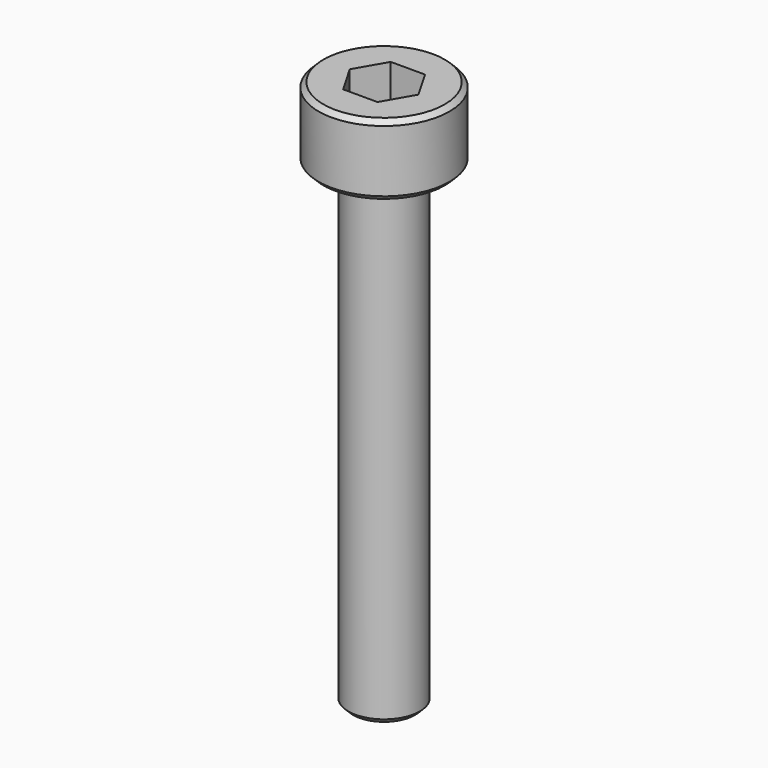
from build123d import *

# Parameters (mm, degrees)
SKETCH006_R     = 2.75
PAD003_DEPTH    = 3
SKETCH007_R     = 1.5
PAD004_DEPTH    = 20
POCKET002_DEPTH = 4
CHAMFER004_SIZE = 0.2


with BuildPart() as part:
    # Sketch006 → Pad003 (new body)
    with BuildSketch(Plane.XY):
        Circle(SKETCH006_R)
    extrude(amount=PAD003_DEPTH)

    # Sketch007 (on Face2 of Pad003) → Pad004 (join)
    with BuildSketch(Plane(origin=(0, 0, 0), x_dir=(1, 0, 0), z_dir=(0, 0, -1))):
        Circle(SKETCH007_R)
    extrude(amount=PAD004_DEPTH)

    # Sketch008 (on DatumPlane) → Pocket002 (cut)
    with BuildSketch(Plane.XY.offset(3)):
        Polygon((0.721688, -1.25), (1.443376, 0), (0.721688, 1.25), (-0.721688, 1.25), (-1.443376, 0), (-0.721688, -1.25), align=None)
    extrude(amount=-POCKET002_DEPTH, mode=Mode.SUBTRACT)

    # Chamfer004
    chamfer004_edges = [part.edges().sort_by_distance(p)[0] for p in [
        (-1.5, 0, -20),
        (-2.75, 0, 0),
        (-2.75, 0, 3),
    ]]
    chamfer(chamfer004_edges, length=CHAMFER004_SIZE)


solid = part.part
